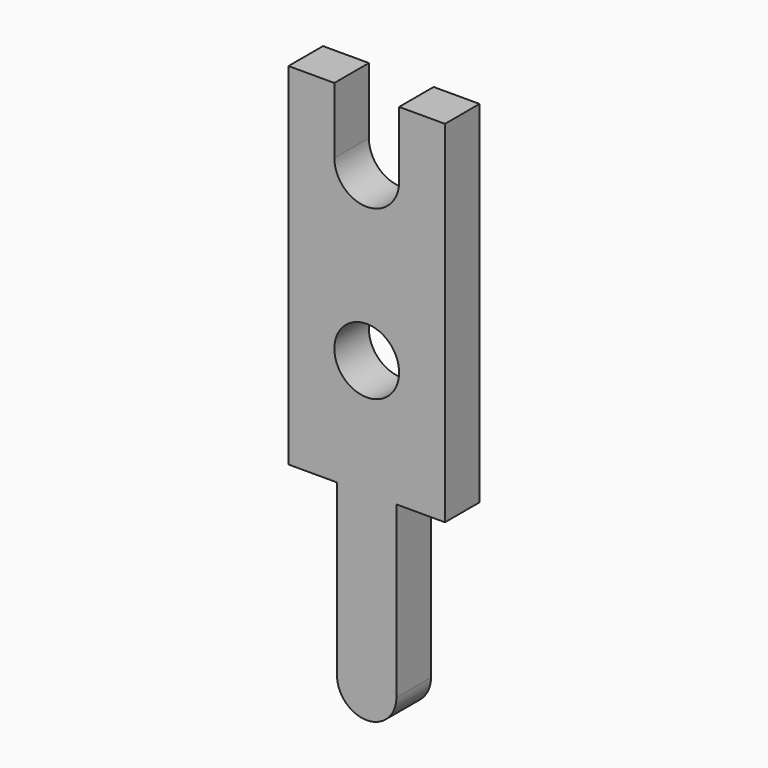
from build123d import *

# Parameters (mm, degrees)
SKETCH_R  = 0.6
PAD_DEPTH = 0.4


with BuildPart() as part:
    # Sketch → Pad (new body, symmetric)
    with BuildSketch(Plane(origin=(0, 0, 0), x_dir=(-1, 0, 0), z_dir=(0, 1, 0))):
        with BuildLine():
            Line((-1.45, 6.5), (-1.45, 0))
            Line((-1.45, 0), (-0.55, 0))
            Line((-0.55, 0), (-0.55, -3.15))
            ThreePointArc((-0.55, -3.15), (0, -3.7), (0.55, -3.15))
            Line((0.55, 0), (0.55, -3.15))
            Line((0.55, 0), (1.45, 0))
            Line((1.45, 0), (1.45, 6.5))
            Line((1.45, 6.5), (0.6, 6.5))
            Line((0.6, 6.5), (0.6, 5.275))
            ThreePointArc((-0.6, 5.275), (0, 4.675), (0.6, 5.275))
            Line((-0.6, 5.275), (-0.6, 6.5))
            Line((-0.6, 6.5), (-1.45, 6.5))
        make_face()
        with Locations((0, 2.16645)):
            Circle(SKETCH_R, mode=Mode.SUBTRACT)
    extrude(amount=PAD_DEPTH, both=True)


solid = part.part
